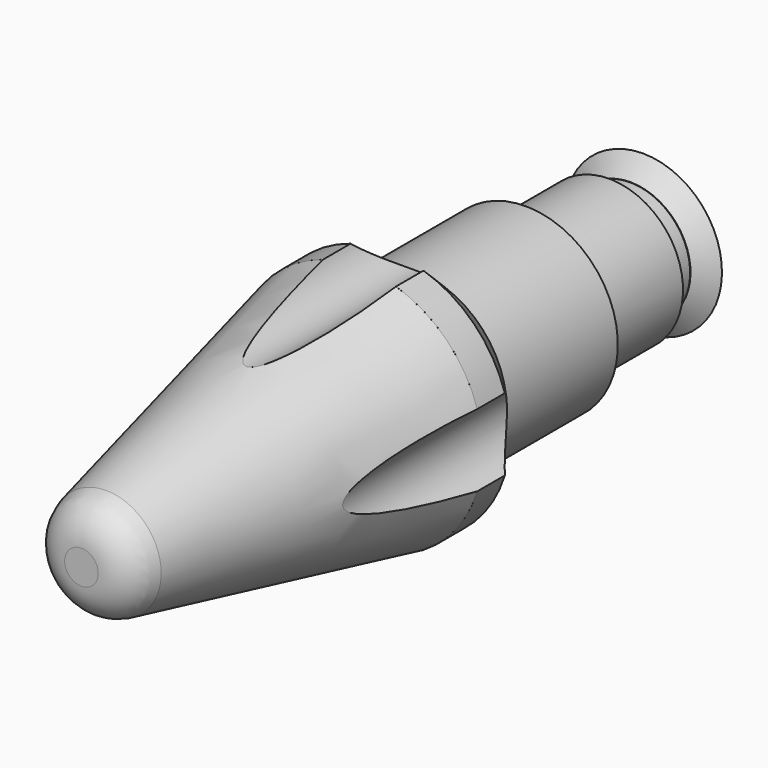
from build123d import *

# Parameters (mm, degrees)
F0_R      = 29.972
F1_DEPTH  = 8.382
F7_D      = 19.05
F7_DEPTH  = 92.9451080497
F8_D      = 19.05
F8_DEPTH  = 8.382
F8_TIP    = 5.7231973962
F10_R     = 22.4155
F11_DEPTH = 33.782
F13_R     = 17.9578
F14_DEPTH = 25.4
F16_R     = 14.605
F17_DEPTH = 6.35


with BuildPart() as f1:
    # F0 (on Front) → F1 (new body)
    with BuildSketch(Plane.XZ):
        Circle(F0_R)
    extrude(amount=F1_DEPTH)

    # F2 (on Right) → F3 (revolve)
    with BuildSketch(Plane.YZ):
        Polygon((0, 29.972), (0, 0), (8.382, 0), (8.382, 22.4155), align=None)
    revolve(axis=Axis((0, 4.191, 0), (0, 1, 0)))

    # F4 (on Right) → F5 (revolve)
    with BuildSketch(Plane.YZ):
        with BuildLine():
            Line((-92.9441079497, 0), (-8.3621079497, 0))
            Line((-8.3621079497, 0), (-8.3621079497, 29.972))
            Line((-8.3621079497, 29.972), (-85.4228612746, 13.3898279636))
            ThreePointArc((-85.4228612746, 13.3898279636), (-90.8289451753, 10.0629513937), (-92.9441079497, 4.0779754297))
            Line((-92.9441079497, 4.0779754297), (-92.9441079497, 0))
        make_face()
    revolve(axis=Axis((0, -50.6531079497, 0), (0, -1, 0)))

    # F7 (through all, one way)
    with BuildSketch(Plane(origin=(0, 0, 0), x_dir=(1, 0, 0), z_dir=(0, 1, 0))):
        with Locations((0, -32.0963459847), (32.2727986443, 0), (0, 32.2729822402), (-31.8486602042, 0.0986718003)):
            Circle(F7_D / 2)
    extrude(amount=-F7_DEPTH, mode=Mode.SUBTRACT)

    # F8
    with Locations(Plane.XZ):
        with Locations((0, 32.0963459847), (-31.8486602042, -0.0986718003), (0, -32.2729822402), (32.2727986443, 0)):
            Hole(F8_D / 2, depth=F8_DEPTH)
            with Locations((0, 0, -(F8_DEPTH + F8_TIP / 2))):  # 118° drill point
                Cone(0, F8_D / 2, F8_TIP, mode=Mode.SUBTRACT)

    # F10 (on offset) → F11 (join)
    with BuildSketch(Plane(origin=(0, 8.382, 0), x_dir=(-1, 0, 0), z_dir=(0, 1, 0))):
        Circle(F10_R)
    extrude(amount=F11_DEPTH)

    # F13 (on offset) → F14 (join)
    with BuildSketch(Plane(origin=(0, 42.164, 0), x_dir=(-1, 0, 0), z_dir=(0, 1, 0))):
        Circle(F13_R)
        Circle(F13_R)
    extrude(amount=F14_DEPTH)

    # F16 (on offset) → F17 (join)
    with BuildSketch(Plane(origin=(0, 67.564, 0), x_dir=(-1, 0, 0), z_dir=(0, 1, 0))):
        Circle(F16_R)
    extrude(amount=F17_DEPTH)


with BuildPart() as f19:
    # F18 (on Right) → F19 (revolve)
    with BuildSketch(Plane.YZ):
        Polygon((74.0276277065, 14.605), (74.0276277065, 0), (77.8376277065, 0), (77.8376277065, 19.2059390247), align=None)
    revolve(axis=Axis((0, 75.9326277065, 0), (0, 1, 0)))


solid = Compound([f1.part, f19.part])
